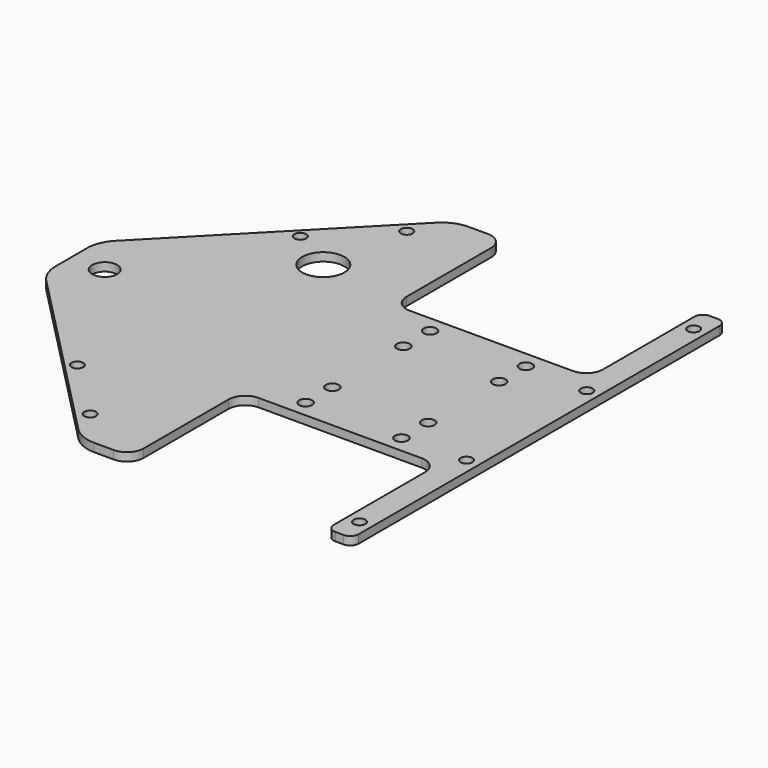
from build123d import *

# Parameters (mm, degrees)
PAD_DEPTH       = 3.175
SKETCH001_R     = 8.0264
SKETCH001_R_2   = 4.7625
SKETCH001_R_3   = 2.46634
POCKET_DEPTH    = 3.176
FILLET_R        = 12.7
FILLET001_R     = 12.7
FILLET002_R     = 12.7
FILLET003_R     = 12.7
FILLET004_R     = 6.35
FILLET005_R     = 6.35
FILLET006_R     = 6.35
FILLET007_R     = 6.35
FILLET008_R     = 3.175
SKETCH002_R     = 2.2479
POCKET001_DEPTH = 3.176
FILLET009_R     = 6.35
FILLET010_R     = 6.35
FILLET011_R     = 3.175
FILLET012_R     = 3.175
SKETCH003_R     = 2.2479
POCKET002_DEPTH = 3.176


with BuildPart() as part:
    # Sketch → Pad (new body)
    with BuildSketch(Plane(origin=(-14.3421, 44.2432, 43.6758), x_dir=(1, 0, 0), z_dir=(0, 0, 1))):
        Polygon((37.363997, 35.9029), (-37.362803, 35.9029), (-37.362803, 88.9), (-56.412803, 88.9), (-130.912197, 12.700584), (-130.912197, -12.699416), (-56.413997, -88.9), (-37.363997, -88.9), (-37.363997, -35.9029), (37.362803, -35.9029), (37.362803, -88.9), (46.887803, -88.9), (46.887803, 88.9), (37.363997, 88.9), align=None)
    extrude(amount=PAD_DEPTH)

    # Sketch001 → Pocket (cut, through all)
    with BuildSketch(Plane(origin=(-14.3421, 44.2432, 46.8508), x_dir=(1, 0, 0), z_dir=(0, 0, 1))):
        with Locations((-69.533135, 42.978666)):
            Circle(SKETCH001_R)
        with Locations((-118.212197, 0.000584)):
            Circle(SKETCH001_R_2)
        with Locations((-18.211203, 29.5529)):
            Circle(SKETCH001_R_3)
        with Locations((18.212397, 29.5529)):
            Circle(SKETCH001_R_3)
        with Locations((-18.211203, 16.8529)):
            Circle(SKETCH001_R_3)
        with Locations((18.212397, 16.8529)):
            Circle(SKETCH001_R_3)
        with Locations((-18.211203, -16.8529)):
            Circle(SKETCH001_R_3)
        with Locations((18.212397, -16.8529)):
            Circle(SKETCH001_R_3)
        with Locations((-18.211203, -29.5529)):
            Circle(SKETCH001_R_3)
        with Locations((18.212397, -29.5529)):
            Circle(SKETCH001_R_3)
    extrude(amount=-POCKET_DEPTH, mode=Mode.SUBTRACT)

    # Fillet
    fillet_edges = [part.edges().sort_by_distance(p)[0] for p in [
        (-145.254297, 56.943784, 45.2633),
    ]]
    fillet(fillet_edges, radius=FILLET_R)

    # Fillet001
    fillet001_edges = [part.edges().sort_by_distance(p)[0] for p in [
        (-145.254297, 31.543784, 45.2633),
    ]]
    fillet(fillet001_edges, radius=FILLET001_R)

    # Fillet002
    fillet002_edges = [part.edges().sort_by_distance(p)[0] for p in [
        (-70.756097, -44.6568, 45.2633),
    ]]
    fillet(fillet002_edges, radius=FILLET002_R)

    # Fillet003
    fillet003_edges = [part.edges().sort_by_distance(p)[0] for p in [
        (-70.754903, 133.1432, 45.2633),
    ]]
    fillet(fillet003_edges, radius=FILLET003_R)

    # Fillet004
    fillet004_edges = [part.edges().sort_by_distance(p)[0] for p in [
        (-51.706097, -44.6568, 45.2633),
    ]]
    fillet(fillet004_edges, radius=FILLET004_R)

    # Fillet005
    fillet005_edges = [part.edges().sort_by_distance(p)[0] for p in [
        (-51.704903, 133.1432, 45.2633),
    ]]
    fillet(fillet005_edges, radius=FILLET005_R)

    # Fillet006
    fillet006_edges = [part.edges().sort_by_distance(p)[0] for p in [
        (-51.706097, 8.3403, 45.2633),
    ]]
    fillet(fillet006_edges, radius=FILLET006_R)

    # Fillet007
    fillet007_edges = [part.edges().sort_by_distance(p)[0] for p in [
        (23.020703, 8.3403, 45.2633),
    ]]
    fillet(fillet007_edges, radius=FILLET007_R)

    # Fillet008
    fillet008_edges = [part.edges().sort_by_distance(p)[0] for p in [
        (23.020703, -44.6568, 45.2633),
    ]]
    fillet(fillet008_edges, radius=FILLET008_R)

    # Sketch002 → Pocket001 (cut, through all)
    with BuildSketch(Plane(origin=(-14.3421, 44.2432, 46.8508), x_dir=(1, 0, 0), z_dir=(0, 0, 1))):
        with Locations((-63.581526, 75.195872)):
            Circle(SKETCH002_R)
        with Locations((-86.246322, 52.96145)):
            Circle(SKETCH002_R)
        with Locations((-86.247007, -52.960923)):
            Circle(SKETCH002_R)
        with Locations((-63.582545, -75.195686)):
            Circle(SKETCH002_R)
    extrude(amount=-POCKET001_DEPTH, mode=Mode.SUBTRACT)

    # Fillet009
    fillet009_edges = [part.edges().sort_by_distance(p)[0] for p in [
        (-51.704903, 80.1461, 45.2633),
    ]]
    fillet(fillet009_edges, radius=FILLET009_R)

    # Fillet010
    fillet010_edges = [part.edges().sort_by_distance(p)[0] for p in [
        (23.021897, 80.1461, 45.2633),
    ]]
    fillet(fillet010_edges, radius=FILLET010_R)

    # Fillet011
    fillet011_edges = [part.edges().sort_by_distance(p)[0] for p in [
        (23.021897, 133.1432, 45.2633),
        (32.545703, 133.1432, 45.2633),
    ]]
    fillet(fillet011_edges, radius=FILLET011_R)

    # Fillet012
    fillet012_edges = [part.edges().sort_by_distance(p)[0] for p in [
        (32.545703, -44.6568, 45.2633),
    ]]
    fillet(fillet012_edges, radius=FILLET012_R)

    # Sketch003 → Pocket002 (cut, through all)
    with BuildSketch(Plane(origin=(-14.3421, 44.2432, 46.8508), x_dir=(1, 0, 0), z_dir=(0, 0, 1))):
        with Locations((42.125303, -28.575)):
            Circle(SKETCH003_R)
        with Locations((42.125303, 79.375)):
            Circle(SKETCH003_R)
        with Locations((42.125303, -79.375)):
            Circle(SKETCH003_R)
        with Locations((42.125303, 28.575)):
            Circle(SKETCH003_R)
    extrude(amount=-POCKET002_DEPTH, mode=Mode.SUBTRACT)


solid = part.part
